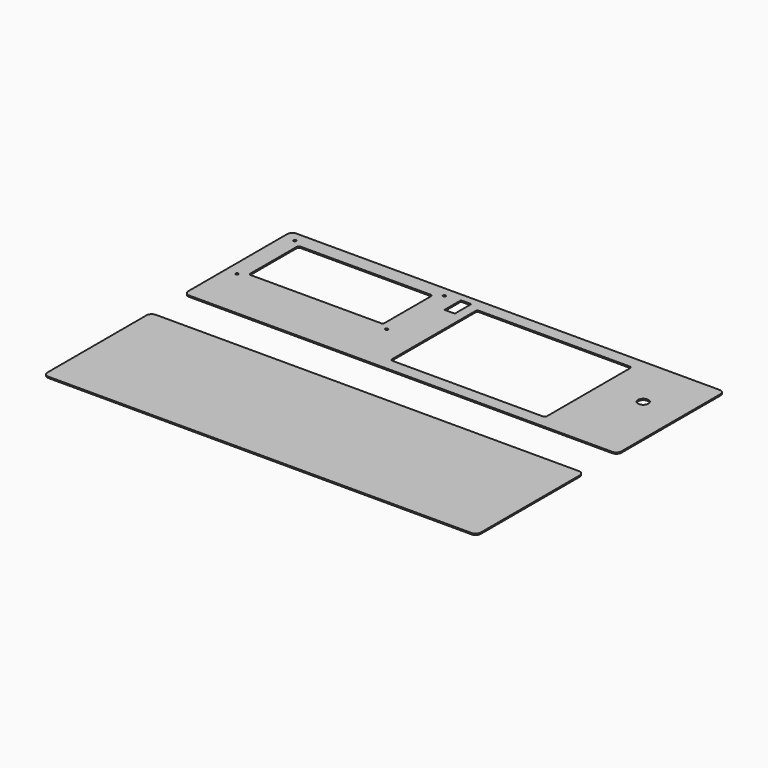
from build123d import *

# Parameters (mm, degrees)
F0_W     = 1066.8
F0_H     = 330.2
F0_R     = 3.2385
F0_W_2   = 330.2
F0_H_2   = 152.4
F0_W_3   = 25.4
F0_H_3   = 50.8
F0_W_4   = 381
F0_H_4   = 266.7
F0_R_2   = 12.7
F1_DEPTH = 3.175
F2_DEPTH = 3.175
F3_R     = 5.08
F4_R     = 12.7
F4_2_R   = 12.7


with BuildPart() as f1:
    # F0 (on Top) → F1 (new body)
    with BuildSketch(Plane.XY):
        with Locations((-45.236103, -15.10883)):
            Rectangle(F0_W, F0_H)
        with Locations((-550.286172, -52.614683)):
            Circle(F0_R, mode=Mode.SUBTRACT)
        with Locations((-181.986172, -52.614683)):
            Circle(F0_R, mode=Mode.SUBTRACT)
        with Locations((-366.136172, 36.285317)):
            Rectangle(F0_W_2, F0_H_2, mode=Mode.SUBTRACT)
        with Locations((-550.286172, 125.185317)):
            Circle(F0_R, mode=Mode.SUBTRACT)
        with Locations((-181.986172, 125.185317)):
            Circle(F0_R, mode=Mode.SUBTRACT)
        with Locations((-132.837489, 105.265893)):
            Rectangle(F0_W_3, F0_H_3, mode=Mode.SUBTRACT)
        with Locations((94.536968, -15.10883)):
            Rectangle(F0_W_4, F0_H_4, mode=Mode.SUBTRACT)
        with Locations((392.03462, 19.719087)):
            Circle(F0_R_2, mode=Mode.SUBTRACT)
    extrude(amount=F1_DEPTH)

    # F3
    f3_edges = [f1.edges().sort_by_distance(p)[0] for p in [
        (-531.236172, 112.485317, 1.5875),
        (-531.236172, -39.914683, 1.5875),
        (-201.036172, -39.914683, 1.5875),
        (-201.036172, 112.485317, 1.5875),
        (-95.963032, 118.24117, 1.5875),
        (-95.963032, -148.45883, 1.5875),
        (285.036968, -148.45883, 1.5875),
        (285.036968, 118.24117, 1.5875),
    ]]
    fillet(f3_edges, radius=F3_R)

    # F4
    f4_edges = [f1.edges().sort_by_distance(p)[0] for p in [
        (-578.636103, 149.99117, 1.5875),
        (-578.636103, -180.20883, 1.5875),
        (488.163897, -180.20883, 1.5875),
        (488.163897, 149.99117, 1.5875),
    ]]
    fillet(f4_edges, radius=F4_R)


with BuildPart() as f2:
    # F0 (on Top) → F2 (new body)
    with BuildSketch(Plane.XY):
        with Locations((-45.236103, -448.074284)):
            Rectangle(F0_W, F0_H)
    extrude(amount=F2_DEPTH)

    # F4#2
    f4_2_edges = [f2.edges().sort_by_distance(p)[0] for p in [
        (-578.636103, -282.974284, 1.5875),
        (-578.636103, -613.174284, 1.5875),
        (488.163897, -613.174284, 1.5875),
        (488.163897, -282.974284, 1.5875),
    ]]
    fillet(f4_2_edges, radius=F4_2_R)


solid = Compound([f1.part, f2.part])
